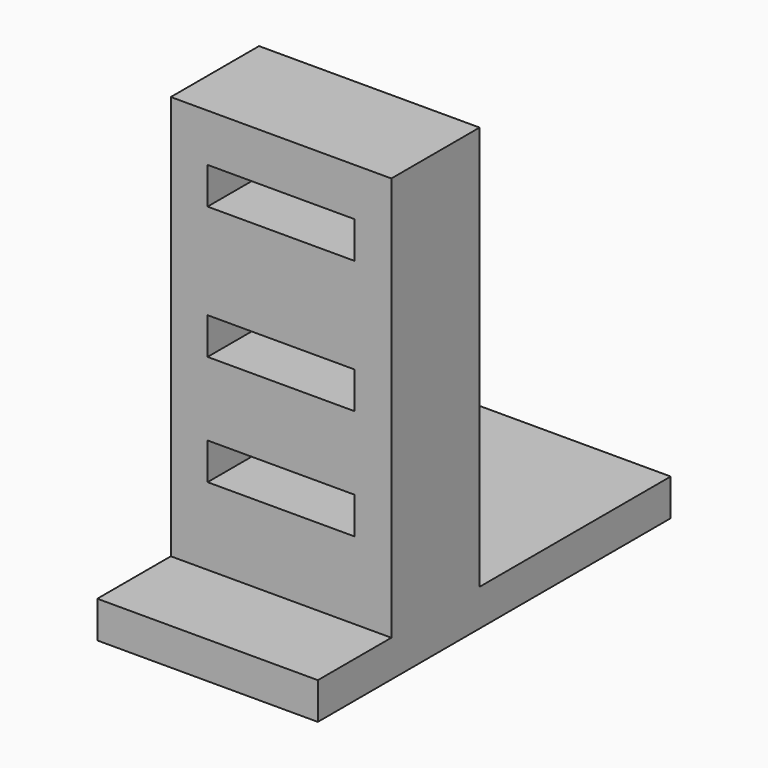
from build123d import *

# Parameters (mm, degrees)
F2_W     = 30
F2_H     = 60
F3_DEPTH = 5
F4_W     = 30
F4_H     = 15
F5_DEPTH = 55
F6_W     = 20
F6_H     = 5
F7_DEPTH = 47.501


with BuildPart() as f3:
    # F2 (on Top) → F3 (new body)
    with BuildSketch(Plane.XY):
        with Locations((0, 10)):
            Rectangle(F2_W, F2_H)
    extrude(amount=F3_DEPTH)

    # F4 (on face) → F5 (join)
    with BuildSketch(Plane.XY.offset(5)):
        Rectangle(F4_W, F4_H)
    extrude(amount=F5_DEPTH)

    # F6 (on face) → F7 (cut, through all)
    with BuildSketch(Plane.XZ.offset(7.5)):
        with Locations((0, 51)):
            Rectangle(F6_W, F6_H)
        with Locations((0, 33)):
            Rectangle(F6_W, F6_H)
        with Locations((0, 18)):
            Rectangle(F6_W, F6_H)
    extrude(amount=-F7_DEPTH, mode=Mode.SUBTRACT)


solid = f3.part
